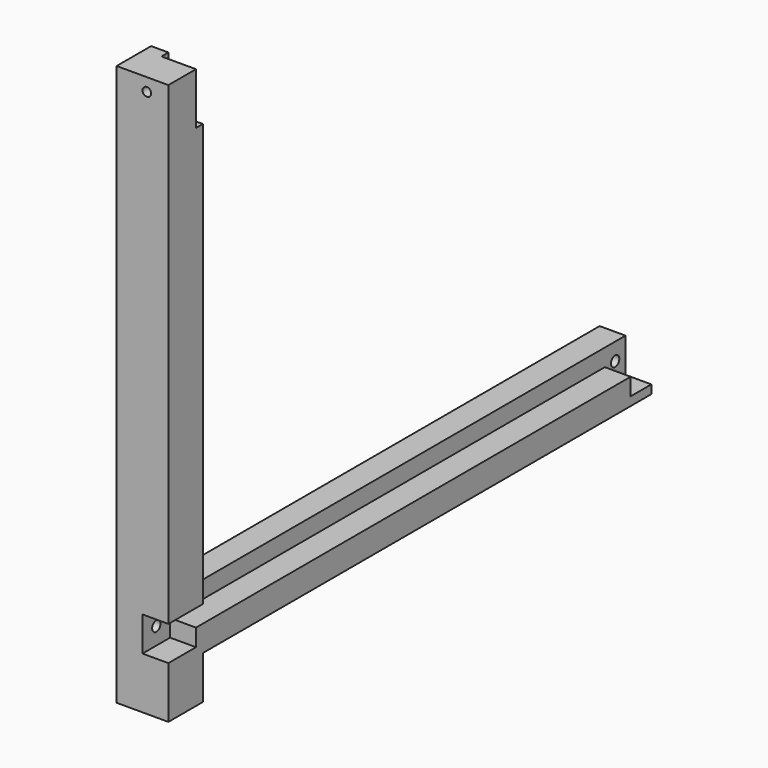
from build123d import *

# Parameters (mm, degrees)
F1_DEPTH = 60
F3_DEPTH = 30
F5_D     = 12
F7_DEPTH = 10
F9_D     = 10


with BuildPart() as f1:
    # F0 (on Right) → F1 (new body)
    with BuildSketch(Plane.YZ):
        Polygon((-299.395279, -136.848614), (-299.395279, -86.848614), (350.604721, -86.848614), (350.604721, -36.848614), (-299.395279, -36.848614), (-299.395279, 513.151386), (-349.395279, 513.151386), (-349.395279, -36.848614), (-349.395279, -86.848614), (-349.395279, -136.848614), align=None)
    extrude(amount=F1_DEPTH)

    # F2 (on face) → F3 (cut)
    with BuildSketch(Plane.YZ.offset(60)):
        Polygon((-309.395279, -36.848614), (-349.395279, -36.848614), (-349.395279, -76.848614), (-309.395279, -76.848614), (-309.395279, -56.848614), (320.604721, -56.848614), (320.604721, -76.848614), (350.604721, -76.848614), (350.604721, -36.848614), align=None)
    extrude(amount=-F3_DEPTH, mode=Mode.SUBTRACT)

    # F5 (through all)
    with Locations(Plane.YZ.offset(30)):
        with Locations((-329.395279, -56.848614), (335.604721, -56.848614)):
            Hole(F5_D / 2)

    # F6 (on face) → F7 (cut)
    with BuildSketch(Plane(origin=(0, -299.395279, 0), x_dir=(-1, 0, 0), z_dir=(0, 1, 0))):
        Polygon((-40, -36.848614), (-30, -36.848614), (-30, 453.151386), (-20, 453.151386), (-20, 513.151386), (-60, 513.151386), (-60, 463.151386), (-60, 453.151386), (-40, 453.151386), align=None)
    extrude(amount=-F7_DEPTH, mode=Mode.SUBTRACT)

    # F9 (through all)
    with Locations(Plane(origin=(0, -309.395279, 0), x_dir=(-1, 0, 0), z_dir=(0, 1, 0))):
        with Locations((-35, 498.151386)):
            Hole(F9_D / 2)


solid = f1.part
